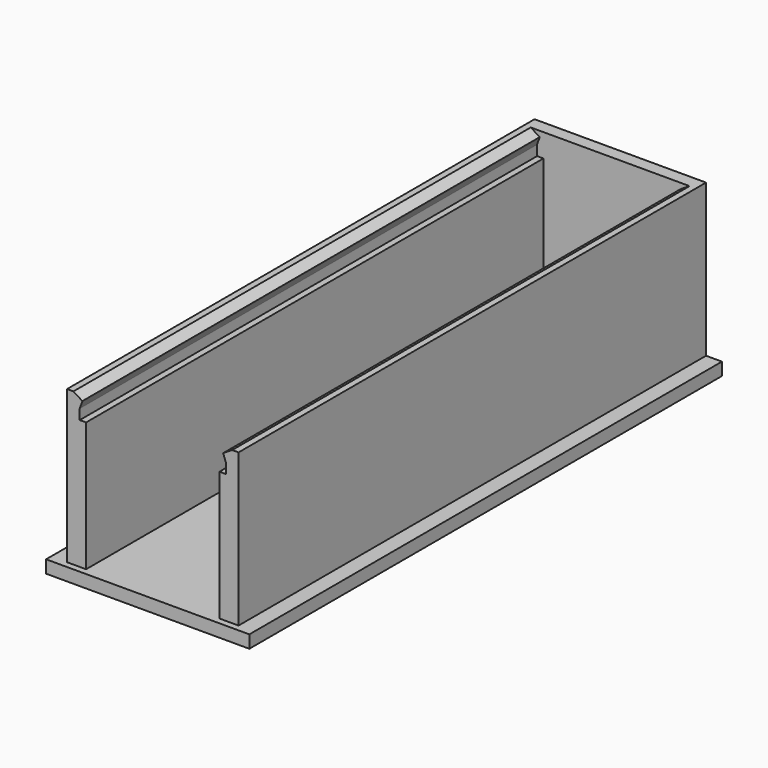
from build123d import *

# Parameters (mm, degrees)
SKETCH010_W  = 32
SKETCH010_H  = 93
PAD008_DEPTH = 2
PAD009_DEPTH = 90
SKETCH012_W  = 27
SKETCH012_H  = 2
PAD010_DEPTH = 3
PAD011_DEPTH = 24


with BuildPart() as part:
    # Sketch010 → Pad008 (new body)
    with BuildSketch(Plane.XY):
        with Locations((0, -84.5)):
            Rectangle(SKETCH010_W, SKETCH010_H)
    extrude(amount=PAD008_DEPTH)

    # Sketch011 → Pad009 (join)
    with BuildSketch(Plane.XZ.offset(40)):
        Polygon((-13.5, 2), (-13.5, 26), (-12.5, 26), (-11.085595, 25.117329), (-11.5, 23.95), (-11.5, 22.35), (-10.5, 22.35), (-10.5, 2), align=None)
    pad009 = extrude(amount=PAD009_DEPTH)

    # Mirrored: Pad009 across Sketch011 V_Axis
    add(pad009.mirror(Plane(origin=(0, -40, 0), x_dir=(0, -1, 0), z_dir=(1, 0, 0))))

    # Sketch012 (on Face5 of Mirrored) → Pad010 (join)
    with BuildSketch(Plane.XY.offset(2)):
        with Locations((0, -39)):
            Rectangle(SKETCH012_W, SKETCH012_H)
    extrude(amount=PAD010_DEPTH)

    # Sketch012 (on Face5 of Mirrored) → Pad011 (join)
    with BuildSketch(Plane.XY.offset(2)):
        with Locations((0, -39)):
            Rectangle(SKETCH012_W, SKETCH012_H)
    extrude(amount=PAD011_DEPTH)


with BuildPart() as part_1:
    # Body006 placement: moved
    add(part.part.moved(Location((0, 0, 4))))


solid = part_1.part
